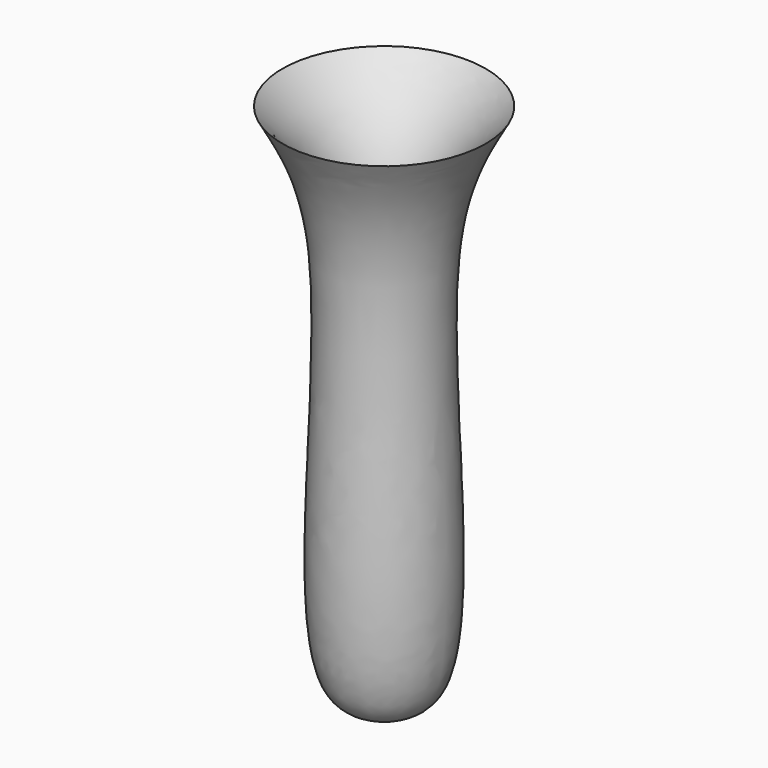
from build123d import *


with BuildPart() as f1:
    # F0 (on Front) → F1 (revolve)
    with BuildSketch(Plane.XZ):
        with BuildLine():
            Line((0, 1.3309040805), (0, 0))
            add(Edge.make_bspline(
                [(0, 0), (1.5716885324, 0.133231796), (7.1975286718, 0.6101334023), (2.713811883, 33.712359336), (6.7831485273, 40.9317943129), (8.3408737555, 43.6953641474)],
                knots=[0, 0, 0, 0, 0.1930758809, 0.6911127863, 1, 1, 1, 1], degree=3))
            add(Edge.make_bspline(
                [(0, 1.3309040805), (1.2761675916, 1.4889436218), (6.1695520463, 2.0949363142), (-0.2566206105, 35.0350537518), (5.9608320856, 41.2979331357), (8.3408737555, 43.6953641474)],
                knots=[0, 0, 0, 0, 0.1788136661, 0.6856497686, 1, 1, 1, 1], degree=3))
        make_face()
    revolve(axis=Axis((0, 0, 7.060085889), (0, 0, 1)))


solid = f1.part
